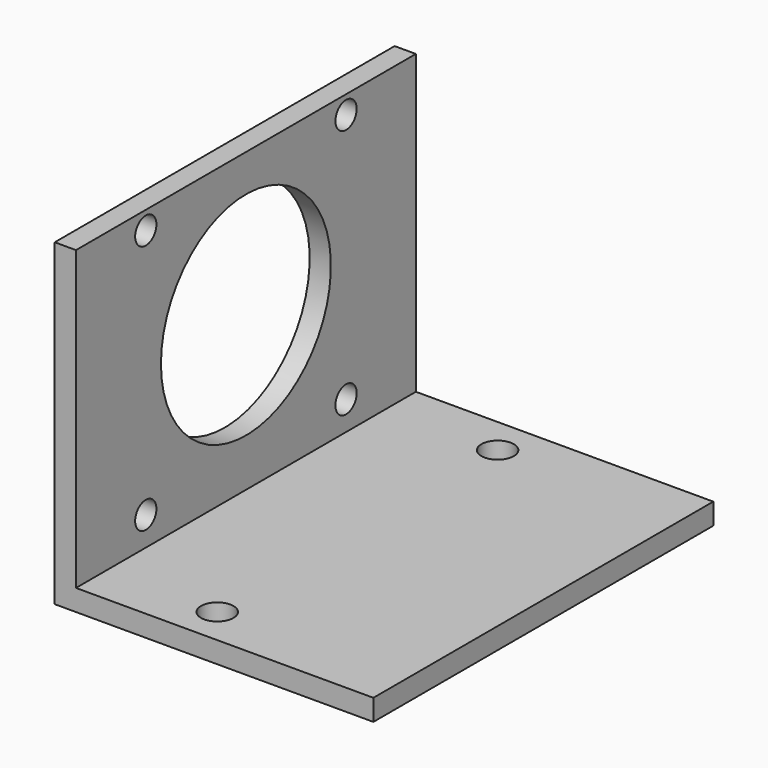
from build123d import *

# Parameters (mm, degrees)
F1_DEPTH = 80
F3_R     = 3.05
F4_DEPTH = 25
F2_R     = 2.5
F2_R_2   = 20
F5_DEPTH = 4


with BuildPart() as f1:
    # F0 (on Front) → F1 (new body)
    with BuildSketch(Plane.XZ):
        Polygon((0, 60), (0, 0), (60, 0), (60, 4), (4, 4), (4, 60), align=None)
    extrude(amount=F1_DEPTH)

    # F3 (on face) → F4 (cut)
    with BuildSketch(Plane(origin=(0, 0, 0), x_dir=(1, 0, 0), z_dir=(0, 0, -1))):
        with Locations((25, 73)):
            Circle(F3_R)
        with Locations((25, 7)):
            Circle(F3_R)
    extrude(amount=-F4_DEPTH, mode=Mode.SUBTRACT)

    # F2 (on face) → F5 (cut, through all)
    with BuildSketch(Plane(origin=(0, 0, 0), x_dir=(0, -1, 0), z_dir=(-1, 0, 0))):
        with Locations((16.43, 56.57)):
            Circle(F2_R)
        with Locations((40, 33)):
            Circle(F2_R_2)
        with Locations((63.57, 56.57)):
            Circle(F2_R)
        with Locations((16.43, 9.43)):
            Circle(F2_R)
        with Locations((63.57, 9.43)):
            Circle(F2_R)
    extrude(amount=-F5_DEPTH, mode=Mode.SUBTRACT)


solid = f1.part
